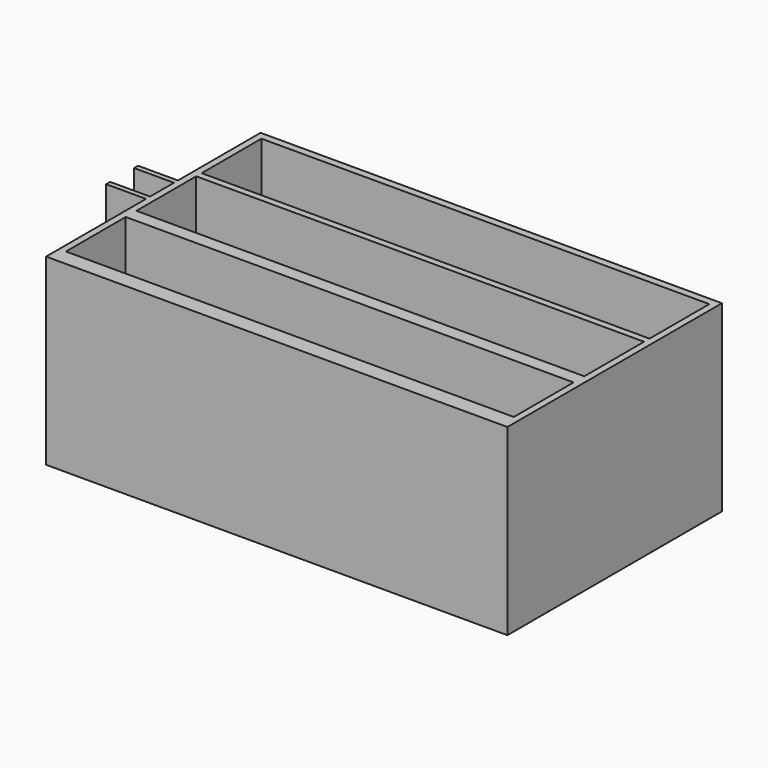
from build123d import *

# Parameters (mm, degrees)
F0_W     = 147.0372378826
F0_H     = 85.4446366429
F0_W_2   = 142.748
F0_H_2   = 2.1700232911
F0_H_3   = 4.2537826065
F0_H_4   = 2.8852941023
F1_DEPTH = 58.42
F0_H_5   = 23.8125
F0_H_6   = 23.8252
F2_DEPTH = 1.27
F3_W     = 1.6002
F3_H     = 17.4752
F4_DEPTH = 12.7
F5_W     = 3.175
F5_H     = 12.7
F6_DEPTH = 25.4


with BuildPart() as f1:
    # F0 (on Top) → F1 (new body)
    with BuildSketch(Plane.XY):
        Rectangle(F0_W, F0_H)
        Polygon((71.374, -37.5007058977), (71.374, -40.386), (-71.374, -40.386), (-71.374, -37.5007058977), (-71.374, -13.6755058977), (-71.374, -9.4217232911), (-71.374, 14.4034767089), (-71.374, 16.5735), (-71.374, 40.386), (71.374, 40.386), (71.374, 16.5735), (71.374, 14.4034767089), (71.374, -9.4217232911), (71.374, -13.6755058977), align=None, mode=Mode.SUBTRACT)
        with Locations((0, 15.4884883544)):
            Rectangle(F0_W_2, F0_H_2)
        with Locations((0, -11.5486145944)):
            Rectangle(F0_W_2, F0_H_3)
        with Locations((0, -38.9433529488)):
            Rectangle(F0_W_2, F0_H_4)
    extrude(amount=F1_DEPTH)

    # F0 (on Top) → F2 (join)
    with BuildSketch(Plane.XY):
        Rectangle(F0_W, F0_H)
        Polygon((71.374, -37.5007058977), (71.374, -40.386), (-71.374, -40.386), (-71.374, -37.5007058977), (-71.374, -13.6755058977), (-71.374, -9.4217232911), (-71.374, 14.4034767089), (-71.374, 16.5735), (-71.374, 40.386), (71.374, 40.386), (71.374, 16.5735), (71.374, 14.4034767089), (71.374, -9.4217232911), (71.374, -13.6755058977), align=None, mode=Mode.SUBTRACT)
        with Locations((0, 28.47975)):
            Rectangle(F0_W_2, F0_H_5)
        with Locations((0, 2.4908767089)):
            Rectangle(F0_W_2, F0_H_6)
        with Locations((0, -25.5881058977)):
            Rectangle(F0_W_2, F0_H_6)
    extrude(amount=F2_DEPTH)

    # F3 (on face) → F4 (join)
    with BuildSketch(Plane(origin=(-73.5186189413, 0, 0), x_dir=(0, -1, 0), z_dir=(-1, 0, 0))):
        with Locations((-9.0124478253, 49.6824)):
            Rectangle(F3_W, F3_H)
        with Locations((2.1127521747, 49.6824)):
            Rectangle(F3_W, F3_H)
    extrude(amount=F4_DEPTH)

    # F5 (on face) → F6 (cut)
    with BuildSketch(Plane(origin=(0, 9.8125478253, 0), x_dir=(-1, 0, 0), z_dir=(0, 1, 0))):
        with Locations((75.1061189413, 47.2948)):
            Rectangle(F5_W, F5_H)
    extrude(amount=-F6_DEPTH, mode=Mode.SUBTRACT)


solid = f1.part
